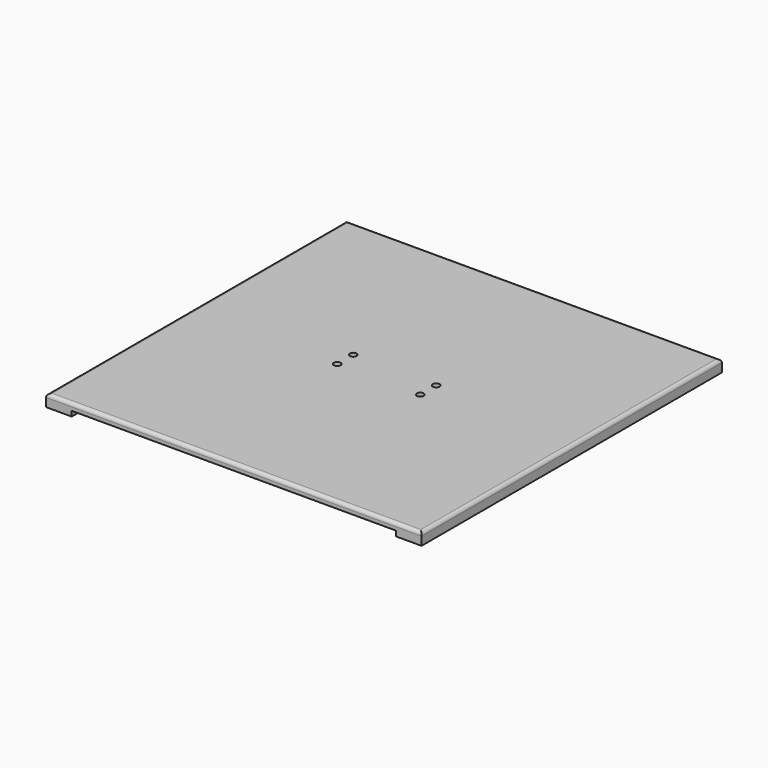
from build123d import *

# Parameters (mm, degrees)
PAD_DEPTH    = 220
SKETCH002_R  = 2
POCKET_DEPTH = 5.5
FILLET_R     = 2
FILLET001_R  = 1


with BuildPart() as part:
    # Sketch → Pad (new body)
    with BuildSketch(Plane.XZ):
        Polygon((-95, 0.548531), (-95, 3.548531), (95, 3.548531), (95, 0.548531), (110, 0.548531), (110, 7.548531), (-110, 7.548531), (-110, 0.548531), align=None)
    extrude(amount=PAD_DEPTH)

    # Sketch002 (on DatumPlane) → Pocket (cut, symmetric)
    with BuildSketch(Plane.XY.offset(6)):
        with Locations((-24.3, -113.85)):
            Circle(SKETCH002_R)
        with Locations((-24.3, -102.15)):
            Circle(SKETCH002_R)
    pocket = extrude(amount=POCKET_DEPTH, both=True, mode=Mode.SUBTRACT)

    # Mirrored: Pocket across Sketch002 V_Axis
    add(pocket.mirror(Plane(origin=(0, 0, 6), x_dir=(0, 0, 1), z_dir=(1, 0, 0))), mode=Mode.SUBTRACT)

    # Fillet
    fillet_edges = [part.edges().sort_by_distance(p)[0] for p in [
        (0, 0, 7.548531),
        (-110, -110, 7.548531),
        (0, -220, 7.548531),
        (110, -110, 7.548531),
    ]]
    fillet(fillet_edges, radius=FILLET_R)

    # Fillet001
    fillet001_edges = [part.edges().sort_by_distance(p)[0] for p in [
        (-26.3, -113.85, 3.548531),
        (-26.3, -102.15, 3.548531),
        (26.3, -113.85, 3.548531),
        (26.3, -102.15, 3.548531),
    ]]
    fillet(fillet001_edges, radius=FILLET001_R)


solid = part.part
